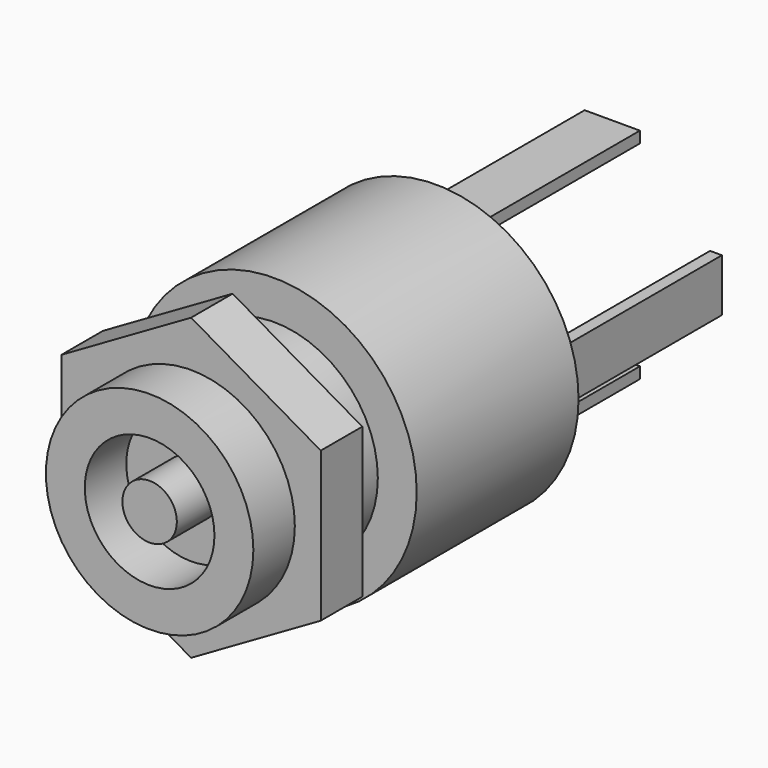
from build123d import *

# Parameters (mm, degrees)
F0_R     = 5.5
F1_DEPTH = 7.8
F2_R     = 4
F2_R_2   = 2.5
F2_R_3   = 1.05
F3_DEPTH = 6
F6_DEPTH = 2
F7_W     = 0.456778
F7_H     = 2.030816
F7_W_2   = 2.131754
F7_H_2   = 0.43523
F7_H_3   = 0.434156
F8_DEPTH = 8.5


with BuildPart() as f1:
    # F0 (on Front) → F1 (new body)
    with BuildSketch(Plane.XZ):
        Circle(F0_R)
    extrude(amount=-F1_DEPTH)

    # F2 (on Front) → F3 (join)
    with BuildSketch(Plane.XZ):
        Circle(F2_R)
        Circle(F2_R_2, mode=Mode.SUBTRACT)
        Circle(F2_R_3)
    extrude(amount=F3_DEPTH)

    # F5 (on offset) → F6 (join)
    with BuildSketch(Plane.XZ.offset(4)):
        Polygon((5, -2.886751), (5, 2.886751), (0, 5.773503), (-5, 2.886751), (-5, -2.886751), (0, -5.773503), align=None)
    extrude(amount=-F6_DEPTH)

    # F7 (on face) → F8 (join)
    with BuildSketch(Plane(origin=(0, 7.8, 0), x_dir=(-1, 0, 0), z_dir=(0, 1, 0))):
        with Locations((-4, 0)):
            Rectangle(F7_W, F7_H)
        with Locations((0, 4)):
            Rectangle(F7_W_2, F7_H_2)
        with Locations((0, -4)):
            Rectangle(F7_W_2, F7_H_3)
    extrude(amount=F8_DEPTH)


solid = f1.part
